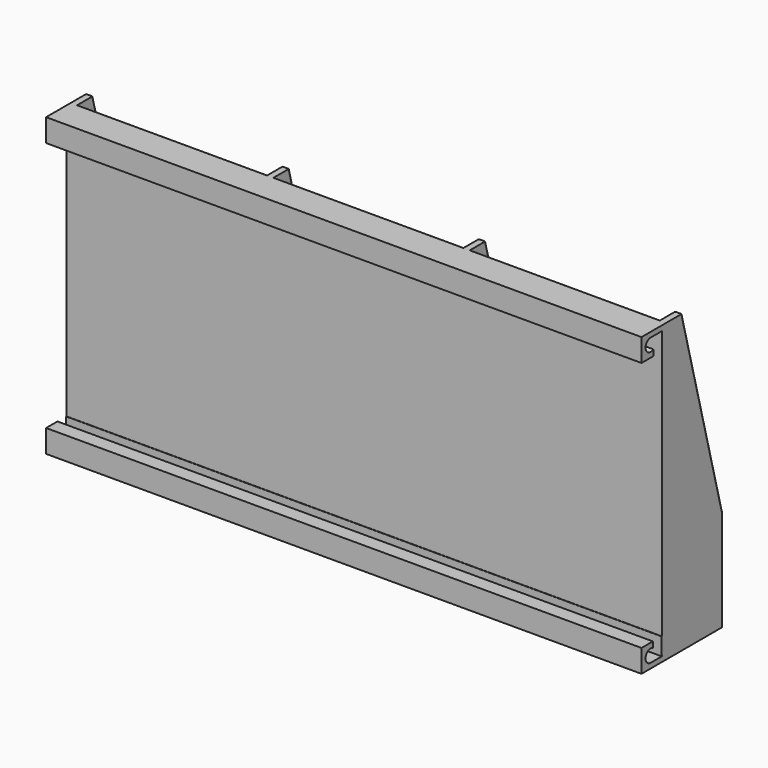
from build123d import *

# Parameters (mm, degrees)
BOX_W                              = 235
BOX_H                              = 30
BOX_DEPTH                          = 117
SKETCH_W                           = 75
SKETCH_H                           = 25
POCKET_DEPTH                       = 115.5
POCKET001_DEPTH                    = 300
SKETCH002_W                        = 75
SKETCH002_H                        = 7
POCKET002_DEPTH                    = 5
SKETCH002_LINEARPATTERN001_2_W     = 75
SKETCH002_LINEARPATTERN001_2_H     = 7
POCKET002_LINEARPATTERN001_2_DEPTH = 5
SKETCH002_LINEARPATTERN001_3_W     = 75
SKETCH002_LINEARPATTERN001_3_H     = 7
POCKET002_LINEARPATTERN001_3_DEPTH = 5
LINEARPATTERN002_COUNT             = 3
LINEARPATTERN002_PITCH             = 8.5
FILLET_R                           = 0.5
SKETCH003_W                        = 235
SKETCH003_H                        = 9
PAD_DEPTH                          = 10
POCKET003_DEPTH                    = 235.001


with BuildPart() as part:
    # Box → Box (new body)
    with BuildSketch(Plane.XY):
        with Locations((117.5, 15)):
            Rectangle(BOX_W, BOX_H)
    extrude(amount=BOX_DEPTH)

    # Sketch (on Face6 of BaseFeature) → Pocket (cut)
    with BuildSketch(Plane.XY.offset(117)):
        with Locations((40, 15)):
            Rectangle(SKETCH_W, SKETCH_H)
        with Locations((117.5, 15)):
            Rectangle(SKETCH_W, SKETCH_H)
        with Locations((195, 15)):
            Rectangle(SKETCH_W, SKETCH_H)
    extrude(amount=-POCKET_DEPTH, mode=Mode.SUBTRACT)

    # Sketch001 (on Face6 of Pocket) → Pocket001 (cut)
    with BuildSketch(Plane.YZ.offset(235)):
        Polygon((10, 117), (30, 40), (40, 120), align=None)
    extrude(amount=-POCKET001_DEPTH, mode=Mode.SUBTRACT)

    # Sketch002 (on Face5 of Pocket001) → Pocket002 (cut)
    with BuildSketch(Plane(origin=(0, 0, 0), x_dir=(1, 0, 0), z_dir=(0, 0, -1))):
        with Locations((40, -6)):
            Rectangle(SKETCH002_W, SKETCH002_H)
    pocket002 = extrude(amount=-POCKET002_DEPTH, mode=Mode.SUBTRACT)

    # Sketch002 LinearPattern001 2 → Pocket002 LinearPattern001 2 (cut)
    with BuildSketch(Plane(origin=(77.5, 0, 0), x_dir=(1, 0, 0), z_dir=(0, 0, -1))):
        with Locations((40, -6)):
            Rectangle(SKETCH002_LINEARPATTERN001_2_W, SKETCH002_LINEARPATTERN001_2_H)
    pocket002_linearpattern001_2 = extrude(amount=-POCKET002_LINEARPATTERN001_2_DEPTH, mode=Mode.SUBTRACT)

    # Sketch002 LinearPattern001 3 → Pocket002 LinearPattern001 3 (cut)
    with BuildSketch(Plane(origin=(155, 0, 0), x_dir=(1, 0, 0), z_dir=(0, 0, -1))):
        with Locations((40, -6)):
            Rectangle(SKETCH002_LINEARPATTERN001_3_W, SKETCH002_LINEARPATTERN001_3_H)
    pocket002_linearpattern001_3 = extrude(amount=-POCKET002_LINEARPATTERN001_3_DEPTH, mode=Mode.SUBTRACT)

    # LinearPattern002: Pocket002, Pocket002 LinearPattern001 2, Pocket002 LinearPattern001 3 ×3
    with Locations(*[(0, i * LINEARPATTERN002_PITCH, 0) for i in range(1, LINEARPATTERN002_COUNT)]):
        add(pocket002, mode=Mode.SUBTRACT)
        add(pocket002_linearpattern001_2, mode=Mode.SUBTRACT)
        add(pocket002_linearpattern001_3, mode=Mode.SUBTRACT)

    # Fillet
    fillet_edges = [part.edges().sort_by_distance(p)[0] for p in [
        (117.5, 30, 40),
        (117.5, 30, 0),
        (0, 30, 20),
        (0, 20, 78.5),
        (2.5, 18.75, 83.3125),
        (40, 27.5, 49.625),
        (77.5, 18.75, 83.3125),
        (80, 18.75, 83.3125),
        (117.5, 27.5, 49.625),
        (155, 18.75, 83.3125),
        (157.5, 18.75, 83.3125),
        (195, 27.5, 49.625),
        (232.5, 18.75, 83.3125),
        (235, 20, 78.5),
        (235, 30, 20),
        (1.25, 10, 117),
        (78.75, 10, 117),
        (156.25, 10, 117),
        (233.75, 10, 117),
        (195, 2.5, 117),
        (40, 2.5, 117),
        (117.5, 2.5, 117),
    ]]
    fillet(fillet_edges, radius=FILLET_R)

    # Sketch003 (on Face4 of Fillet) → Pad (join)
    with BuildSketch(Plane.XZ):
        with Locations((117.5, 112.5)):
            Rectangle(SKETCH003_W, SKETCH003_H)
        with Locations((117.5, 4.5)):
            Rectangle(SKETCH003_W, SKETCH003_H)
    extrude(amount=PAD_DEPTH)

    # Sketch004 (on Face76 of Pad) → Pocket003 (cut, through all)
    with BuildSketch(Plane.YZ.offset(235)):
        with BuildLine():
            ThreePointArc((-5.478476, 114.999907), (-7.903779, 111.813088), (-4.160827, 110.38893))
            Line((-4.160827, 105.760277), (-4.160827, 110.38893))
            Line((0, 105.760277), (-4.160827, 105.760277))
            Line((0, 114.999907), (0, 105.760277))
            Line((-5.478476, 114.999907), (0, 114.999907))
        make_face()
        with BuildLine():
            ThreePointArc((-4.401101, 6.745533), (-7.935553, 5.063989), (-5.5, 2))
            Line((-5.5, 2), (0, 2))
            Line((0, 2), (-0.240678, 13.918851))
            Line((-0.240678, 13.918851), (-4.401101, 13.860906))
            Line((-4.401101, 13.860906), (-4.401101, 6.745533))
        make_face()
    extrude(amount=-POCKET003_DEPTH, mode=Mode.SUBTRACT)


solid = part.part
